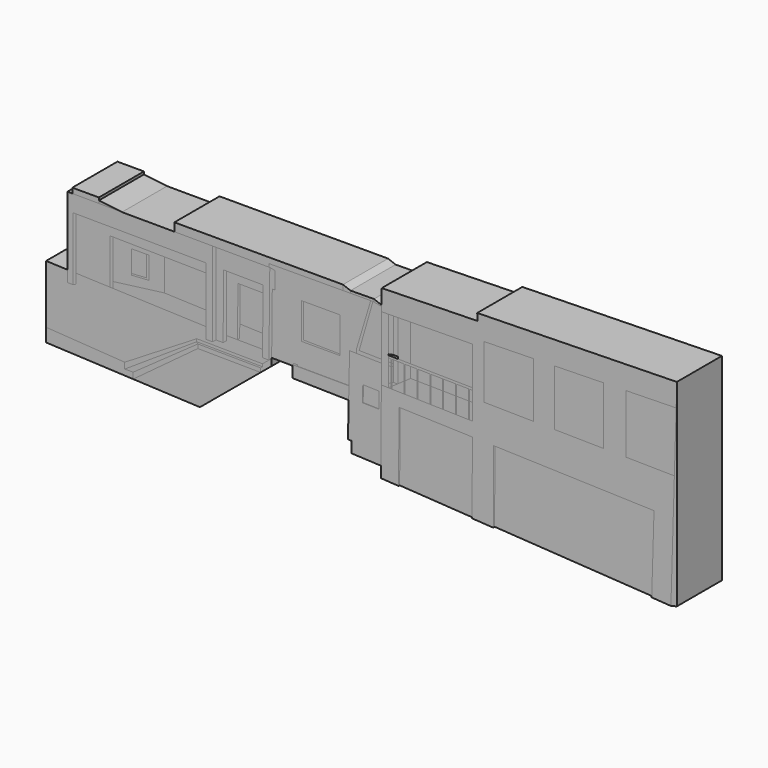
from build123d import *

# Parameters (mm, degrees)
F2_DEPTH  = 25.4
F3_DEPTH  = 25.4
F4_DEPTH  = 25.4
F5_DEPTH  = 25.4
F6_DEPTH  = 25.4
F7_DEPTH  = 25.4
F8_DEPTH  = 25.4
F9_DEPTH  = 25.4
F10_DEPTH = 25.4
F11_DEPTH = 25.4
F12_DEPTH = 25.4
F13_DEPTH = 25.4
F14_DEPTH = 25.4
F15_DEPTH = 25.4
F16_DEPTH = 25.4
F17_DEPTH = 25.4
F18_DEPTH = 25.4
F19_DEPTH = 25.4
F20_DEPTH = 25.4
F21_DEPTH = 25.4
F22_DEPTH = 25.4
F23_DEPTH = 25.4
F24_DEPTH = 25.4
F25_DEPTH = 25.4
F26_DEPTH = 25.4
F27_DEPTH = 25.4
F28_DEPTH = 25.4
F29_DEPTH = 25.4
F30_DEPTH = 25.4
F31_DEPTH = 25.4
F32_DEPTH = 25.4
F34_DEPTH = 25.4
F35_DEPTH = 25.4
F36_DEPTH = 25.4
F37_DEPTH = 25.4
F38_DEPTH = 25.4
F39_DEPTH = 25.4


with BuildPart() as f2:
    # F1 (on Front) → F2 (new body)
    with BuildSketch(Plane.XZ):
        Polygon((-12.8236627206, 21.753092451), (-12.8236627206, 24.1047445584), (-88.786845567, 24.1047445584), (-88.8035788036, 20.3721602718), (-71.7224664589, 20.2955853651), (-70.053704083, 20.288104276), (-48.7212203443, 20.1924704015), (-46.0638565993, 20.1805573963), (-46.0787265702, 21.5943669499), align=None)
    extrude(amount=F2_DEPTH)


with BuildPart() as f3:
    # F1 (on Front) → F3 (new body)
    with BuildSketch(Plane.XZ):
        Polygon((-9.4284280536, 21.7692978123), (-9.4396201894, 22.8334255517), (-12.8236627206, 24.1047445584), (-12.8236627206, 21.753092451), align=None)
    extrude(amount=F3_DEPTH)


with BuildPart() as f4:
    # F1 (on Front) → F4 (new body)
    with BuildSketch(Plane.XZ):
        Polygon((1.1672987376, 21.727256583), (1.1544924928, 22.9448508471), (-9.4396201894, 22.8334255517), (-9.4284280536, 21.7692978123), (-0.3221281921, 21.81276193), (0.6849506753, 21.8175686896), align=None)
    extrude(amount=F4_DEPTH)


with BuildPart() as f5:
    # F1 (on Front) → F5 (new body)
    with BuildSketch(Plane.XZ):
        Polygon((4.6097605062, 21.0827096292), (4.6125653396, 21.6457200897), (1.1544924928, 22.9448508471), (1.1672987376, 21.727256583), align=None)
    extrude(amount=F5_DEPTH)


with BuildPart() as f6:
    # F1 (on Front) → F6 (new body)
    with BuildSketch(Plane.XZ):
        Polygon((-134.8049057565, 20.578384975), (-122.8294596076, 20.5246988535), (-122.8294596076, 21.7148145851), (-122.8294596076, 22.9049303167), (-134.7944758156, 22.9049303167), align=None)
    extrude(amount=F6_DEPTH)


with BuildPart() as f7:
    # F1 (on Front) → F7 (new body)
    with BuildSketch(Plane.XZ):
        Polygon((-122.8294596076, 20.5246988535), (-112.3969100415, 20.4779295627), (-122.8294596076, 21.7148145851), align=None)
    extrude(amount=F7_DEPTH)


with BuildPart() as f8:
    # F1 (on Front) → F8 (new body)
    with BuildSketch(Plane.XZ):
        Polygon((-93.3647081256, 8.9381127764), (-74.4870336238, 8.6408559152), (-74.4719281793, 12.6396454871), (-133.0359578133, 13.0366897835), (-133.0359578133, -10.5046743578), (-117.9161667824, -11.055755556), (-117.9161667824, 9.3247117475), (-116.5267212274, 9.3028328754), align=None)
    extrude(amount=F8_DEPTH)


with BuildPart() as f8b:
    # F1 (on Front) → F8, piece 2 (new body)
    with BuildSketch(Plane.XZ):
        Polygon((-48.8040843389, 12.2516578923), (-65.2248669793, 12.4230121009), (-65.2248669793, -13.1652359564), (-60.3828283538, -13.2157636149), (-60.1489692926, 9.1948257759), (-59.1636573161, 9.1845438449), (-48.8372147804, 9.0767853155), align=None)
    extrude(amount=F8_DEPTH)


with BuildPart() as f8c:
    # F1 (on Front) → F8, piece 3 (new body)
    with BuildSketch(Plane.XZ):
        Polygon((-0.3221281921, 21.81276193), (-9.4284280536, 21.7692978123), (-12.8236627206, 21.753092451), (-46.0787265702, 21.5943669499), (-46.0638565993, 20.1805573963), (-45.8085096147, 20.1794126716), (-43.5050688684, 19.7023320943), (-43.4100739658, 12.0260063559), (-44.6840562734, 12.0393006205), (-44.9702762799, -15.3890103123), (-35.550262779, -15.4873100702), (-35.550262779, -15.0549281389), (-35.0273512304, -14.3694002181), (-33.1623815, -14.3694002181), (-33.5702952949, -14.9041680892), (-10.1415719546, -15.0208864623), (-9.8592014983, -1.1436360655), (-6.7912865888, -1.2060611503), (-6.7912865888, 0.3678446519), align=None)
        Polygon((-31.4390063286, -4.504986573), (-31.4390063286, 11.6645963863), (-30.6860972196, 11.6645963863), (-14.0862818807, 11.6645963863), (-14.0862818807, -3.8853364531), (-14.0862818807, -4.504986573), align=None, mode=Mode.SUBTRACT)
    extrude(amount=F8_DEPTH)


with BuildPart() as f9:
    # F1 (on Front) → F9 (new body)
    with BuildSketch(Plane.XZ):
        Polygon((-71.7224664589, 20.2955853651), (-88.8035788036, 20.3721602718), (-112.3969100415, 20.4779295627), (-122.8294596076, 20.5246988535), (-134.8049057565, 20.578384975), (-137.029722333, 20.5883588642), (-137.029722333, -15.4212425382), (-134.4574540854, -15.51499573), (-134.4574540854, 13.046327047), (-133.0359578133, 13.0366897835), (-74.4719281793, 12.6396454871), (-74.4870336238, 8.6408559152), (-74.5425941164, -6.067398272), (-74.5674059682, -12.6357170116), (-74.5865255594, -17.6971517503), (-71.7224664589, -17.7079707457), align=None)
    extrude(amount=F9_DEPTH)


with BuildPart() as f9b:
    # F1 (on Front) → F9, piece 2 (new body)
    with BuildSketch(Plane.XZ):
        Polygon((-45.8085096147, 20.1794126716), (-46.0638565993, 20.1805573963), (-48.7212203443, 20.1924704015), (-70.053704083, 20.288104276), (-70.053704083, -16.4709929377), (-66.863694885, -16.483043211), (-66.5619087199, 12.4369644036), (-65.2248669793, 12.4230121009), (-48.8040843389, 12.2516578923), (-48.8372147804, 9.0767853155), (-49.0049603732, -6.9981855938), (-49.0710738415, -13.3338040753), (-49.1104125977, -17.1036161482), (-46.1987661944, -17.2186677112), align=None)
    extrude(amount=F9_DEPTH)


with BuildPart() as f9c:
    # F1 (on Front) → F9, piece 3 (new body)
    with BuildSketch(Plane.XZ):
        Polygon((4.4544618333, -10.0901858449), (4.4975768611, -1.4357638242), (0.5695042589, -1.3558364884), (-6.7912865888, -1.2060611503), (-9.8592014983, -1.1436360655), (-10.1415719546, -15.0208864623), (-10.144839955, -15.1814941312), (-10.2613475043, -20.9073213182), (-10.5805624373, -36.5953136589), (-9.0833045542, -36.6027727723), (-9.0833045542, -41.5925756097), (4.2945207735, -42.1949414351), align=None)
        Polygon((3.3447530638, -20.0826232629), (-4.0550203994, -19.9279244989), (-3.9038069081, -12.6948636025), (-3.5908576878, -12.7014060809), (3.4927338544, -12.8494947841), (3.3458851898, -19.8737710186), (3.3447530638, -19.9279244989), align=None, mode=Mode.SUBTRACT)
    extrude(amount=F9_DEPTH)


with BuildPart() as f10:
    # F1 (on Front) → F10 (new body)
    with BuildSketch(Plane.XZ):
        Polygon((137.3065667502, 24.0006496559), (137.6165449619, 34.4184823334), (47.6724280822, 32.5341352647), (47.7442517877, 29.3896533549), (4.6462402679, 28.4052435309), (4.6125653396, 21.6457200897), (4.6097605062, 21.0827096292), (4.5993166247, 18.9863232298), (7.630603388, 19.0231844237), (9.8902536556, 19.0506623276), (11.9567220022, 19.0757910918), (17.6390260458, 19.1448893089), (45.6520797953, 19.4855349438), (45.56582533, 2.1717911751), (45.5606573475, 1.1344289391), (45.5368567753, -3.6430281619), (45.4997904599, -11.0833002254), (44.1734993602, -11.0512098803), (43.6955066383, -11.0396445825), (38.3715594882, -10.9108287428), (37.8935667662, -10.899263445), (32.5696196161, -10.7704476053), (32.0916268942, -10.7588823075), (26.7676797441, -10.6300664678), (26.2896870221, -10.61850117), (20.965739872, -10.4896853303), (20.4877471501, -10.4781200325), (15.1638, -10.3493041928), (14.6858072781, -10.337738895), (9.361860128, -10.2089230553), (8.883867406, -10.1973577575), (7.630603388, -10.1670343429), (4.4544618333, -10.0901858449), (4.2945207735, -42.1949414351), (4.2698774487, -47.1415631473), (12.2345117559, -47.6396150356), (12.390377, -16.3529925048), (12.8813954983, -16.3685805216), (45.4997904599, -17.4040936227), (45.34099701, -49.278491008), (45.3388486617, -49.7097260877), (54.9387449667, -50.3100356936), (55.1011589102, -17.7089014721), (55.6370504398, -17.7259140412), (127.3345202208, -20.0020428747), (126.3175911551, -54.1792735616), (126.2999411403, -54.7724600977), (134.9466177769, -55.3131620885), (136.4968242545, -3.2133980176), (114.6556908173, -2.8781736871), (114.6556908173, 23.5261093174), align=None)
        Polygon((50.7306903601, -1.8970334204), (50.7306903601, 22.1868678927), (72.9427945525, 22.6522158763), (72.9427945525, -2.2379515225), align=None, mode=Mode.SUBTRACT)
        Polygon((82.3846384525, -2.3828678021), (82.3846384525, 22.8500243767), (104.6096384525, 23.31564253), (104.6096384525, -2.7239838329), align=None, mode=Mode.SUBTRACT)
    extrude(amount=F10_DEPTH)


with BuildPart() as f11:
    # F1 (on Front) → F11 (new body)
    with BuildSketch(Plane.XZ):
        Polygon((55.5203706026, -49.7521162033), (126.3175911551, -54.1792735616), (127.3345202208, -20.0020428747), (55.6370504398, -17.7259140412), align=None)
    extrude(amount=F11_DEPTH)


with BuildPart() as f11b:
    # F1 (on Front) → F11, piece 2 (new body)
    with BuildSketch(Plane.XZ):
        Polygon((15.1545894803, -47.3908466178), (45.34099701, -49.278491008), (45.4997904599, -17.4040936227), (12.8813954983, -16.3685805216), (12.7276033163, -47.2390800714), align=None)
    extrude(amount=F11_DEPTH)


with BuildPart() as f12:
    # F1 (on Front) → F12 (new body)
    with BuildSketch(Plane.XZ):
        Polygon((-101.4570593834, -2.0093023777), (-101.4570593834, 7.3346886784), (-108.0558273821, 7.3346886784), (-108.210147276, -2.4655921754), align=None)
    extrude(amount=F12_DEPTH)


with BuildPart() as f12b:
    # F1 (on Front) → F12, piece 2 (new body)
    with BuildSketch(Plane.XZ):
        Polygon((-3.5908576878, -12.7014060809), (-3.7371721276, -19.7001285085), (3.3458851898, -19.8737710186), (3.4927338544, -12.8494947841), align=None)
    extrude(amount=F12_DEPTH)


with BuildPart() as f12c:
    # F1 (on Front) → F12, piece 3 (new body)
    with BuildSketch(Plane.XZ):
        Polygon((-14.0862818807, 11.6645963863), (-30.6860972196, 11.6645963863), (-30.6860972196, -3.6445211153), (-14.0862818807, -3.8853364531), align=None)
    extrude(amount=F12_DEPTH)


with BuildPart() as f12d:
    # F1 (on Front) → F12, piece 4 (new body)
    with BuildSketch(Plane.XZ):
        Polygon((72.9427945525, 22.6522158763), (50.7306903601, 22.1868678927), (50.7306903601, -1.8970334204), (72.9427945525, -2.2379515225), align=None)
    extrude(amount=F12_DEPTH)


with BuildPart() as f12e:
    # F1 (on Front) → F12, piece 5 (new body)
    with BuildSketch(Plane.XZ):
        Polygon((104.6096384525, 23.31564253), (82.3846384525, 22.8500243767), (82.3846384525, -2.3828678021), (104.6096384525, -2.7239838329), align=None)
    extrude(amount=F12_DEPTH)


with BuildPart() as f12f:
    # F1 (on Front) → F12, piece 6 (new body)
    with BuildSketch(Plane.XZ):
        Polygon((136.4968242545, -3.2133980176), (137.3065667502, 24.0006496559), (114.6556908173, 23.5261093174), (114.6556908173, -2.8781736871), align=None)
    extrude(amount=F12_DEPTH)


with BuildPart() as f13:
    # F1 (on Front) → F13 (new body)
    with BuildSketch(Plane.XZ):
        Polygon((7.630603388, 19.0231844237), (4.5993166247, 18.9863232298), (4.5054170281, 0.1379824485), (4.4975768611, -1.4357638242), (4.4544618333, -10.0901858449), (7.630603388, -10.1670343429), (7.630603388, -8.465438859), (7.630603388, -1.524606836), (7.630603388, 0.1379824485), (7.630603388, 1.6951384023), (7.630603388, 2.7325770352), (7.630603388, 3.146259675), align=None)
    extrude(amount=F13_DEPTH)


with BuildPart() as f14:
    # F1 (on Front) → F14 (new body)
    with BuildSketch(Plane.XZ):
        Polygon((11.9567220022, 19.0757910918), (9.8902536556, 19.0506623276), (9.8902536556, 3.5986150615), (11.9567220022, 3.5986150615), align=None)
    extrude(amount=F14_DEPTH)


with BuildPart() as f14b:
    # F1 (on Front) → F14, piece 2 (new body)
    with BuildSketch(Plane.XZ):
        Polygon((11.9567220022, 1.6311865912), (9.8902536556, 1.6617346194), (9.8902536556, 0.0920037093), (9.8902536556, -1.0994425975), (9.8902536556, -7.3095206171), (11.7403589404, -7.3187375632), (11.9567220022, -7.3198154514), (11.9567220022, -7.1687855273), align=None)
    extrude(amount=F14_DEPTH)


with BuildPart() as f15:
    # F1 (on Front) → F15 (new body)
    with BuildSketch(Plane.XZ):
        Polygon((9.0651202749, 2.7113709701), (7.630603388, 2.7325770352), (7.630603388, 1.6951384023), (8.883867406, 1.676611748), (9.361860128, 1.6695457143), (9.8902536556, 1.6617346194), (11.9567220022, 1.6311865912), (14.6858072781, 1.5908432808), (15.1638, 1.583777247), (17.6390260458, 1.5471866672), (20.4877471501, 1.5050748135), (20.965739872, 1.4980087797), (26.2896870221, 1.4193063463), (26.7676797441, 1.4122403125), (32.0916268942, 1.333537879), (32.5696196161, 1.3264718452), (37.8935667662, 1.2477694117), (38.3715594882, 1.240703378), (43.6955066383, 1.1620009445), (44.1734993602, 1.1549349107), (45.5606573475, 1.1344289391), (45.56582533, 2.1717911751), (17.6390260458, 2.5846253001), (11.9567220022, 2.6686252241), (9.8902536556, 2.6991732523), align=None)
        Polygon((14.6858072781, -10.3008347023), (14.6858072781, -10.337738895), (15.1638, -10.3493041928), (15.1638, -10.3124), (15.1638, -4.9460961686), (15.1638, 1.5660687695), (15.1638, 1.583777247), (14.6858072781, 1.5908432808), (14.6858072781, 1.5731348033), (14.6858072781, -5.2773725944), align=None)
        Polygon((8.883867406, -9.298450355), (8.883867406, -10.1973577575), (9.361860128, -10.2089230553), (9.361860128, -8.9671739292), (9.361860128, -7.5798189576), (9.361860128, -1.1988624214), (9.361860128, 0.1027553147), (9.361860128, 1.6695457143), (8.883867406, 1.676611748), (8.883867406, 0.1124813786), (8.883867406, -1.2887990876), (8.883867406, -7.8243348965), align=None)
        Polygon((20.4877471501, -10.404311647), (20.4877471501, -10.4781200325), (20.965739872, -10.4896853303), (20.965739872, -10.4158769447), (20.965739872, -3.2798001585), (20.965739872, 1.4625918248), (20.965739872, 1.4980087797), (20.4877471501, 1.5050748135), (20.4877471501, 1.4696578586), (20.4877471501, -3.2727341247), align=None)
        Polygon((26.2896870221, -10.5077885918), (26.2896870221, -10.61850117), (26.7676797441, -10.6300664678), (26.7676797441, -10.5193538895), (26.7676797441, -3.3655686258), (26.7676797441, 1.35911488), (26.7676797441, 1.4122403125), (26.2896870221, 1.4193063463), (26.2896870221, 1.3661809138), (26.2896870221, -3.358502592), align=None)
        Polygon((32.5696196161, 1.2556379353), (32.5696196161, 1.3264718452), (32.0916268942, 1.333537879), (32.0916268942, 1.2627039691), (32.0916268942, -3.4442710592), (32.0916268942, -10.6112655365), (32.0916268942, -10.7588823075), (32.5696196161, -10.7704476053), (32.5696196161, -10.6228308342), (32.5696196161, -3.451337093), align=None)
        Polygon((38.3715594882, 1.1521609905), (38.3715594882, 1.240703378), (37.8935667662, 1.2477694117), (37.8935667662, 1.1592270243), (37.8935667662, -3.5300395265), (37.8935667662, -10.7147424813), (37.8935667662, -10.899263445), (38.3715594882, -10.9108287428), (38.3715594882, -10.726307779), (38.3715594882, -3.5371055603), align=None)
        Polygon((44.1734993602, 1.0486840458), (44.1734993602, 1.1549349107), (43.6955066383, 1.1620009445), (43.6955066383, 1.0557500796), (43.6955066383, -3.6158079938), (43.6955066383, -10.818219426), (43.6955066383, -11.0396445825), (44.1734993602, -11.0512098803), (44.1734993602, -10.8297847237), (44.1734993602, -3.6228740275), align=None)
    extrude(amount=F15_DEPTH)


with BuildPart() as f16:
    # F1 (on Front) → F16 (new body)
    with BuildSketch(Plane.XZ):
        Polygon((45.6520797953, 19.4855349438), (17.6390260458, 19.1448893089), (17.6390260458, 2.5846253001), (45.56582533, 2.1717911751), align=None)
    extrude(amount=F16_DEPTH)


with BuildPart() as f16b:
    # F1 (on Front) → F16, piece 2 (new body)
    with BuildSketch(Plane.XZ):
        Polygon((17.6390260458, -3.2306222711), (20.4877471501, -3.2727341247), (20.4877471501, 1.4696578586), (20.4877471501, 1.5050748135), (17.6390260458, 1.5471866672), align=None)
    extrude(amount=F16_DEPTH)


with BuildPart() as f16c:
    # F1 (on Front) → F16, piece 3 (new body)
    with BuildSketch(Plane.XZ):
        Polygon((20.965739872, 1.4625918248), (20.965739872, -3.2798001585), (26.2896870221, -3.358502592), (26.2896870221, 1.3661809138), (26.2896870221, 1.4193063463), (20.965739872, 1.4980087797), align=None)
    extrude(amount=F16_DEPTH)


with BuildPart() as f16d:
    # F1 (on Front) → F16, piece 4 (new body)
    with BuildSketch(Plane.XZ):
        Polygon((32.0916268942, 1.2627039691), (32.0916268942, 1.333537879), (26.7676797441, 1.4122403125), (26.7676797441, 1.35911488), (26.7676797441, -3.3655686258), (32.0916268942, -3.4442710592), align=None)
    extrude(amount=F16_DEPTH)


with BuildPart() as f16e:
    # F1 (on Front) → F16, piece 5 (new body)
    with BuildSketch(Plane.XZ):
        Polygon((37.8935667662, 1.1592270243), (37.8935667662, 1.2477694117), (32.5696196161, 1.3264718452), (32.5696196161, 1.2556379353), (32.5696196161, -3.451337093), (37.8935667662, -3.5300395265), align=None)
    extrude(amount=F16_DEPTH)


with BuildPart() as f16f:
    # F1 (on Front) → F16, piece 6 (new body)
    with BuildSketch(Plane.XZ):
        Polygon((43.6955066383, 1.0557500796), (43.6955066383, 1.1620009445), (38.3715594882, 1.240703378), (38.3715594882, 1.1521609905), (38.3715594882, -3.5371055603), (43.6955066383, -3.6158079938), align=None)
    extrude(amount=F16_DEPTH)


with BuildPart() as f16g:
    # F1 (on Front) → F16, piece 7 (new body)
    with BuildSketch(Plane.XZ):
        Polygon((45.5368567753, -3.6430281619), (45.5606573475, 1.1344289391), (44.1734993602, 1.1549349107), (44.1734993602, 1.0486840458), (44.1734993602, -3.6228740275), align=None)
    extrude(amount=F16_DEPTH)


with BuildPart() as f16h:
    # F1 (on Front) → F16, piece 8 (new body)
    with BuildSketch(Plane.XZ):
        Polygon((-93.3647081256, -5.3813760169), (-74.5425941164, -6.067398272), (-74.4870336238, 8.6408559152), (-93.3647081256, 8.9381127764), align=None)
    extrude(amount=F16_DEPTH)


with BuildPart() as f17:
    # F1 (on Front) → F17 (new body)
    with BuildSketch(Plane.XZ):
        Polygon((17.6390260458, 19.1448893089), (11.9567220022, 19.0757910918), (11.9567220022, 3.5986150615), (11.9567220022, 3.2954460476), (11.9567220022, 2.6686252241), (17.6390260458, 2.5846253001), align=None)
    extrude(amount=F17_DEPTH)


with BuildPart() as f17b:
    # F1 (on Front) → F17, piece 2 (new body)
    with BuildSketch(Plane.XZ):
        Polygon((14.6858072781, 1.5908432808), (11.9567220022, 1.6311865912), (11.9567220022, -7.1687855273), (14.6858072781, -5.2773725944), (14.6858072781, 1.5731348033), align=None)
    extrude(amount=F17_DEPTH)


with BuildPart() as f17c:
    # F1 (on Front) → F17, piece 3 (new body)
    with BuildSketch(Plane.XZ):
        Polygon((15.1638, 1.5660687695), (15.1638, -4.9460961686), (17.6390260458, -3.2306222711), (17.6390260458, 1.5471866672), (15.1638, 1.583777247), align=None)
    extrude(amount=F17_DEPTH)


with BuildPart() as f17d:
    # F1 (on Front) → F17, piece 4 (new body)
    with BuildSketch(Plane.XZ):
        Polygon((-116.5267212274, -8.372607809), (-93.3647081256, -5.3813760169), (-93.3647081256, 8.9381127764), (-116.5267212274, 9.3028328754), align=None)
        Polygon((-101.4570593834, 7.3346886784), (-100.3089919686, 7.3346886784), (-100.3089919686, -2.6449130382), (-108.2213893533, -3.1795345712), (-108.210147276, -2.4655921754), (-108.0558273821, 7.3346886784), align=None, mode=Mode.SUBTRACT)
    extrude(amount=F17_DEPTH)


with BuildPart() as f18:
    # F1 (on Front) → F18 (new body)
    with BuildSketch(Plane.XZ):
        Polygon((9.361860128, -8.9671739292), (9.361860128, -10.2089230553), (14.6858072781, -10.337738895), (14.6858072781, -10.3008347023), (14.6858072781, -5.2773725944), (11.9567220022, -7.1687855273), (11.9567220022, -7.3198154514), (11.7403589404, -7.3187375632), align=None)
    extrude(amount=F18_DEPTH)


with BuildPart() as f18b:
    # F1 (on Front) → F18, piece 2 (new body)
    with BuildSketch(Plane.XZ):
        Polygon((15.1638, -10.3124), (15.1638, -10.3493041928), (20.4877471501, -10.4781200325), (20.4877471501, -10.404311647), (20.4877471501, -3.2727341247), (17.6390260458, -3.2306222711), (15.1638, -4.9460961686), align=None)
    extrude(amount=F18_DEPTH)


with BuildPart() as f18c:
    # F1 (on Front) → F18, piece 3 (new body)
    with BuildSketch(Plane.XZ):
        Polygon((20.965739872, -10.4158769447), (20.965739872, -10.4896853303), (26.2896870221, -10.61850117), (26.2896870221, -10.5077885918), (26.2896870221, -3.358502592), (20.965739872, -3.2798001585), align=None)
    extrude(amount=F18_DEPTH)


with BuildPart() as f18d:
    # F1 (on Front) → F18, piece 4 (new body)
    with BuildSketch(Plane.XZ):
        Polygon((26.7676797441, -10.5193538895), (26.7676797441, -10.6300664678), (32.0916268942, -10.7588823075), (32.0916268942, -10.6112655365), (32.0916268942, -3.4442710592), (26.7676797441, -3.3655686258), align=None)
    extrude(amount=F18_DEPTH)


with BuildPart() as f18e:
    # F1 (on Front) → F18, piece 5 (new body)
    with BuildSketch(Plane.XZ):
        Polygon((32.5696196161, -10.7704476053), (37.8935667662, -10.899263445), (37.8935667662, -10.7147424813), (37.8935667662, -3.5300395265), (32.5696196161, -3.451337093), (32.5696196161, -10.6228308342), align=None)
    extrude(amount=F18_DEPTH)


with BuildPart() as f18f:
    # F1 (on Front) → F18, piece 6 (new body)
    with BuildSketch(Plane.XZ):
        Polygon((38.3715594882, -10.9108287428), (43.6955066383, -11.0396445825), (43.6955066383, -10.818219426), (43.6955066383, -3.6158079938), (38.3715594882, -3.5371055603), (38.3715594882, -10.726307779), align=None)
    extrude(amount=F18_DEPTH)


with BuildPart() as f18g:
    # F1 (on Front) → F18, piece 7 (new body)
    with BuildSketch(Plane.XZ):
        Polygon((45.4997904599, -11.0833002254), (45.5368567753, -3.6430281619), (44.1734993602, -3.6228740275), (44.1734993602, -10.8297847237), (44.1734993602, -11.0512098803), align=None)
    extrude(amount=F18_DEPTH)


with BuildPart() as f19:
    # F1 (on Front) → F19 (new body)
    with BuildSketch(Plane.XZ):
        Polygon((-59.3286009093, -6.6219129202), (-49.0049603732, -6.9981855938), (-48.8372147804, 9.0767853155), (-59.1636573161, 9.1845438449), align=None)
    extrude(amount=F19_DEPTH)


with BuildPart() as f20:
    # F1 (on Front) → F20 (new body)
    with BuildSketch(Plane.XZ):
        Polygon((-116.5267212274, -11.1063976131), (-74.5674059682, -12.6357170116), (-74.5425941164, -6.067398272), (-93.3647081256, -5.3813760169), (-116.5267212274, -8.372607809), align=None)
    extrude(amount=F20_DEPTH)


with BuildPart() as f20b:
    # F1 (on Front) → F20, piece 2 (new body)
    with BuildSketch(Plane.XZ):
        Polygon((-60.3828283538, -13.2157636149), (-49.0710738415, -13.3338040753), (-49.0049603732, -6.9981855938), (-59.3286009093, -6.6219129202), (-59.3884177506, -12.354128994), align=None)
    extrude(amount=F20_DEPTH)


with BuildPart() as f21:
    # F1 (on Front) → F21 (new body)
    with BuildSketch(Plane.XZ):
        Polygon((-134.4574540854, 13.046327047), (-134.4574540854, -15.51499573), (-133.0359578133, -14.7666828707), (-133.0359578133, -10.5046743578), (-133.0359578133, 13.0366897835), align=None)
    extrude(amount=F21_DEPTH)


with BuildPart() as f21b:
    # F1 (on Front) → F21, piece 2 (new body)
    with BuildSketch(Plane.XZ):
        Polygon((-117.9161667824, -11.055755556), (-116.5267212274, -11.1063976131), (-116.5267212274, -8.372607809), (-116.5267212274, 9.3028328754), (-117.9161667824, 9.3247117475), align=None)
    extrude(amount=F21_DEPTH)


with BuildPart() as f21c:
    # F1 (on Front) → F21, piece 3 (new body)
    with BuildSketch(Plane.XZ):
        Polygon((-70.053704083, 20.288104276), (-71.7224664589, 20.2955853651), (-71.7224664589, -17.7079707457), (-70.053704083, -16.4709929377), align=None)
    extrude(amount=F21_DEPTH)


with BuildPart() as f21d:
    # F1 (on Front) → F21, piece 4 (new body)
    with BuildSketch(Plane.XZ):
        Polygon((-66.5619087199, 12.4369644036), (-66.863694885, -16.483043211), (-65.2248669793, -15.2161475271), (-65.2248669793, -13.1652359564), (-65.2248669793, 12.4230121009), align=None)
    extrude(amount=F21_DEPTH)


with BuildPart() as f21e:
    # F1 (on Front) → F21, piece 5 (new body)
    with BuildSketch(Plane.XZ):
        Polygon((-60.1489692926, 9.1948257759), (-60.3828283538, -13.2157636149), (-59.3884177506, -12.354128994), (-59.3286009093, -6.6219129202), (-59.1636573161, 9.1845438449), align=None)
    extrude(amount=F21_DEPTH)


with BuildPart() as f21f:
    # F1 (on Front) → F21, piece 6 (new body)
    with BuildSketch(Plane.XZ):
        Polygon((-43.5050688684, 19.7023320943), (-45.8085096147, 20.1794126716), (-46.1987661944, -17.2186677112), (-44.9810233856, -16.4188997314), (-44.9702762799, -15.3890103123), (-44.6840562734, 12.0393006205), (-43.4100739658, 12.0260063559), align=None)
    extrude(amount=F21_DEPTH)


with BuildPart() as f21g:
    # F1 (on Front) → F21, piece 7 (new body)
    with BuildSketch(Plane.XZ):
        Polygon((-100.3089919686, -2.6449130382), (-100.3089919686, 7.3346886784), (-101.4570593834, 7.3346886784), (-101.4570593834, -2.0093023777), align=None)
        Polygon((-108.2213893533, -3.1795345712), (-100.3089919686, -2.6449130382), (-101.4570593834, -2.0093023777), (-108.210147276, -2.4655921754), align=None)
    extrude(amount=F21_DEPTH)


with BuildPart() as f22:
    # F1 (on Front) → F22 (new body)
    with BuildSketch(Plane.XZ):
        Polygon((-5.5362234151, 0.3423069733), (0.6849506753, 21.8175686896), (-0.3221281921, 21.81276193), (-6.7912865888, 0.3678446519), align=None)
        Polygon((0.5695042589, -1.3558364884), (0.577344426, 0.2179097843), (-5.5362234151, 0.3423069733), (-6.7912865888, 0.3678446519), (-6.7912865888, -1.2060611503), align=None)
        Polygon((4.4975768611, -1.4357638242), (4.5054170281, 0.1379824485), (0.577344426, 0.2179097843), (0.5695042589, -1.3558364884), align=None)
    extrude(amount=F22_DEPTH)


with BuildPart() as f23:
    # F1 (on Front) → F23 (new body)
    with BuildSketch(Plane.XZ):
        Polygon((4.5993166247, 18.9863232298), (4.6097605062, 21.0827096292), (1.1672987376, 21.727256583), (0.6849506753, 21.8175686896), (0.577344426, 0.2179097843), (4.5054170281, 0.1379824485), align=None)
        Polygon((0.577344426, 0.2179097843), (0.6849506753, 21.8175686896), (-5.5362234151, 0.3423069733), align=None)
    extrude(amount=F23_DEPTH)


with BuildPart() as f23b:
    # F1 (on Front) → F23, piece 2 (new body)
    with BuildSketch(Plane.XZ):
        Polygon((9.8902536556, 19.0506623276), (7.630603388, 19.0231844237), (7.630603388, 3.146259675), (9.8902536556, 3.5986150615), align=None)
    extrude(amount=F23_DEPTH)


with BuildPart() as f23c:
    # F1 (on Front) → F23, piece 3 (new body)
    with BuildSketch(Plane.XZ):
        Polygon((8.883867406, 1.676611748), (7.630603388, 1.6951384023), (7.630603388, 0.1379824485), (8.883867406, 0.1124813786), align=None)
    extrude(amount=F23_DEPTH)


with BuildPart() as f23d:
    # F1 (on Front) → F23, piece 4 (new body)
    with BuildSketch(Plane.XZ):
        Polygon((9.8902536556, 1.6617346194), (9.361860128, 1.6695457143), (9.361860128, 0.1027553147), (9.8902536556, 0.0920037093), align=None)
    extrude(amount=F23_DEPTH)


with BuildPart() as f24:
    # F1 (on Front) → F24 (new body)
    with BuildSketch(Plane.XZ):
        Polygon((8.883867406, 0.1124813786), (7.630603388, 0.1379824485), (7.630603388, -1.524606836), (8.883867406, -1.2887990876), align=None)
    extrude(amount=F24_DEPTH)


with BuildPart() as f24b:
    # F1 (on Front) → F24, piece 2 (new body)
    with BuildSketch(Plane.XZ):
        Polygon((9.8902536556, 0.0920037093), (9.361860128, 0.1027553147), (9.361860128, -1.1988624214), (9.8902536556, -1.0994425975), align=None)
    extrude(amount=F24_DEPTH)


with BuildPart() as f25:
    # F1 (on Front) → F25 (new body)
    with BuildSketch(Plane.XZ):
        Polygon((7.630603388, -1.524606836), (7.630603388, -8.465438859), (8.883867406, -7.8243348965), (8.883867406, -1.2887990876), align=None)
    extrude(amount=F25_DEPTH)


with BuildPart() as f25b:
    # F1 (on Front) → F25, piece 2 (new body)
    with BuildSketch(Plane.XZ):
        Polygon((9.361860128, -1.1988624214), (9.361860128, -7.5798189576), (9.8902536556, -7.3095206171), (9.8902536556, -1.0994425975), align=None)
    extrude(amount=F25_DEPTH)


with BuildPart() as f26:
    # F1 (on Front) → F26 (new body)
    with BuildSketch(Plane.XZ):
        Polygon((8.883867406, -9.298450355), (7.630603388, -10.1670343429), (8.883867406, -10.1973577575), align=None)
    extrude(amount=F26_DEPTH)


with BuildPart() as f27:
    # F1 (on Front) → F27 (new body)
    with BuildSketch(Plane.XZ):
        Polygon((9.361860128, -7.5798189576), (9.361860128, -8.9671739292), (11.7403589404, -7.3187375632), (9.8902536556, -7.3095206171), align=None)
    extrude(amount=F27_DEPTH)


with BuildPart() as f27b:
    # F1 (on Front) → F27, piece 2 (new body)
    with BuildSketch(Plane.XZ):
        Polygon((7.630603388, -8.465438859), (7.630603388, -10.1670343429), (8.883867406, -9.298450355), (8.883867406, -7.8243348965), align=None)
    extrude(amount=F27_DEPTH)


with BuildPart() as f28:
    # F1 (on Front) → F28 (new body)
    with BuildSketch(Plane.XZ):
        Polygon((-3.9038069081, -12.6948636025), (-4.0550203994, -19.9279244989), (-3.7371721276, -19.7001285085), (-3.5908576878, -12.7014060809), align=None)
        Polygon((-3.7371721276, -19.7001285085), (-4.0550203994, -19.9279244989), (3.3447530638, -20.0826232629), (3.3447530638, -19.9279244989), (3.3458851898, -19.8737710186), align=None)
    extrude(amount=F28_DEPTH)


with BuildPart() as f28b:
    # F1 (on Front) → F28, piece 2 (new body)
    with BuildSketch(Plane.XZ):
        Polygon((-30.6860972196, 11.6645963863), (-31.4390063286, 11.6645963863), (-31.4390063286, -4.504986573), (-30.6860972196, -3.6445211153), align=None)
        Polygon((-30.6860972196, -3.6445211153), (-31.4390063286, -4.504986573), (-14.0862818807, -4.504986573), (-14.0862818807, -3.8853364531), align=None)
    extrude(amount=F28_DEPTH)


with BuildPart() as f29:
    # F1 (on Front) → F29 (new body)
    with BuildSketch(Plane.XZ):
        Polygon((12.7276033163, -47.2390800714), (12.8813954983, -16.3685805216), (12.390377, -16.3529925048), (12.2345117559, -47.6396150356), align=None)
    extrude(amount=F29_DEPTH)


with BuildPart() as f29b:
    # F1 (on Front) → F29, piece 2 (new body)
    with BuildSketch(Plane.XZ):
        Polygon((54.9387449667, -50.3100356936), (55.5203706026, -49.7521162033), (55.6370504398, -17.7259140412), (55.1011589102, -17.7089014721), align=None)
    extrude(amount=F29_DEPTH)


with BuildPart() as f30:
    # F1 (on Front) → F30 (new body)
    with BuildSketch(Plane.XZ):
        Polygon((134.9466177769, -55.3131620885), (137.6165449619, -54.6308495104), (137.6165449619, 34.4184823334), (137.3065667502, 24.0006496559), (136.4968242545, -3.2133980176), align=None)
    extrude(amount=F30_DEPTH)


with BuildPart() as f31:
    # F1 (on Front) → F31 (new body)
    with BuildSketch(Plane.XZ):
        Polygon((-10.2613475043, -20.9073213182), (-10.144839955, -15.1814941312), (-35.550262779, -15.0549281389), (-35.550262779, -15.4873100702), (-35.550262779, -20.3927494586), align=None)
    extrude(amount=F31_DEPTH)


with BuildPart() as f32:
    # F1 (on Front) → F32 (new body)
    with BuildSketch(Plane.XZ):
        Polygon((-10.144839955, -15.1814941312), (-10.1415719546, -15.0208864623), (-33.5702952949, -14.9041680892), (-33.1623815, -14.3694002181), (-35.0273512304, -14.3694002181), (-35.550262779, -15.0549281389), align=None)
    extrude(amount=F32_DEPTH)


with BuildPart() as f34:
    # F33 (on Front) → F34 (new body)
    with BuildSketch(Plane.XZ):
        Polygon((-146.6173222288, -10.0096652298), (-146.6173222288, -36.3308601081), (-111.184835434, -38.6742949486), (-78.737135331, -18.7963504347), (-78.2207266383, -18.8017392645), (-49.0862603537, -19.1057633494), (-44.9952016925, -15.7148999854), (-46.1987661944, -16.6986859474), (-49.1058705039, -16.6683497223), (-49.0710738415, -13.3338040753), (-60.3828283538, -13.2157636149), (-65.2248669793, -13.1652359564), (-65.2248669793, -15.2161475271), (-66.863694885, -16.483043211), (-70.053704083, -16.4709929377), (-71.7224664589, -17.7079707457), (-74.5865255594, -17.6971517503), (-74.5674059682, -12.6357170116), (-116.5267212274, -11.1063976131), (-117.9161667824, -11.055755556), (-133.0359578133, -10.5046743578), (-133.0359578133, -14.7666828707), (-134.4574540854, -15.51499573), (-137.029722333, -15.4212425382), (-137.029722333, -10.3591109349), align=None)
    extrude(amount=F34_DEPTH)


with BuildPart() as f35:
    # F33 (on Front) → F35 (new body)
    with BuildSketch(Plane.XZ):
        Polygon((-146.6173222288, -36.3308601081), (-146.6173222288, -42.3668585718), (-107.3763137338, -44.1365494862), (-107.3763137338, -41.3919791117), (-111.184835434, -41.3919791117), (-111.184835434, -38.6742949486), align=None)
    extrude(amount=F35_DEPTH)


with BuildPart() as f35b:
    # F33 (on Front) → F35, piece 2 (new body)
    with BuildSketch(Plane.XZ):
        Polygon((-49.9489129012, -21.0142006459), (-49.9509623429, -22.821599682), (-44.9952016925, -18.7140303163), (-44.9952016925, -15.7148999854), (-49.0862603537, -19.1057633494), (-49.0862603537, -20.2991933186), align=None)
    extrude(amount=F35_DEPTH)


with BuildPart() as f36:
    # F33 (on Front) → F36 (new body)
    with BuildSketch(Plane.XZ):
        Polygon((-78.737135331, -18.7963504347), (-111.184835434, -38.6742949486), (-111.184835434, -41.3919791117), (-78.737135331, -19.9942111618), align=None)
    extrude(amount=F36_DEPTH)


with BuildPart() as f36b:
    # F33 (on Front) → F36, piece 2 (new body)
    with BuildSketch(Plane.XZ):
        Polygon((-107.3763137338, -41.3919791117), (-107.3763137338, -44.1365494862), (-78.2230718376, -22.5265744658), (-78.2230718376, -20.7191540432), align=None)
    extrude(amount=F36_DEPTH)


with BuildPart() as f37:
    # F33 (on Front) → F37 (new body)
    with BuildSketch(Plane.XZ):
        Polygon((-78.2230718376, -20.7191540432), (-78.2230718376, -22.5265744658), (-49.9509623429, -22.821599682), (-49.9489129012, -21.0142006459), align=None)
    extrude(amount=F37_DEPTH)


with BuildPart() as f37b:
    # F33 (on Front) → F37, piece 2 (new body)
    with BuildSketch(Plane.XZ):
        Polygon((-78.2207266383, -18.8017392645), (-78.737135331, -18.7963504347), (-78.737135331, -19.9942111618), (-78.2207266383, -19.9951692337), (-49.0862603537, -20.2991933186), (-49.0862603537, -19.1057633494), align=None)
    extrude(amount=F37_DEPTH)


with BuildPart() as f38:
    # F33 (on Front) → F38 (new body)
    with BuildSketch(Plane.XZ):
        Polygon((-111.184835434, -41.3919791117), (-107.3763137338, -41.3919791117), (-78.2230718376, -20.7191540432), (-78.737135331, -19.9942111618), align=None)
    extrude(amount=F38_DEPTH)


with BuildPart() as f38b:
    # F33 (on Front) → F38, piece 2 (new body)
    with BuildSketch(Plane.XZ):
        Polygon((-78.2230718376, -22.5265744658), (-107.3763137338, -44.1365494862), (-77.3036070712, -45.4927683448), (-49.9509623429, -22.821599682), align=None)
    extrude(amount=F38_DEPTH)


with BuildPart() as f39:
    # F33 (on Front) → F39 (new body)
    with BuildSketch(Plane.XZ):
        Polygon((-78.737135331, -19.9942111618), (-78.2230718376, -20.7191540432), (-49.9489129012, -21.0142006459), (-49.0862603537, -20.2991933186), (-78.2207266383, -19.9951692337), align=None)
    extrude(amount=F39_DEPTH)


solid = Compound([f2.part, f3.part, f4.part, f5.part, f6.part, f7.part, f8.part, f8b.part, f8c.part, f9.part, f9b.part, f9c.part, f10.part, f11.part, f11b.part, f12.part, f12b.part, f12c.part, f12d.part, f12e.part, f12f.part, f13.part, f14.part, f14b.part, f15.part, f16.part, f16b.part, f16c.part, f16d.part, f16e.part, f16f.part, f16g.part, f16h.part, f17.part, f17b.part, f17c.part, f17d.part, f18.part, f18b.part, f18c.part, f18d.part, f18e.part, f18f.part, f18g.part, f19.part, f20.part, f20b.part, f21.part, f21b.part, f21c.part, f21d.part, f21e.part, f21f.part, f21g.part, f22.part, f23.part, f23b.part, f23c.part, f23d.part, f24.part, f24b.part, f25.part, f25b.part, f26.part, f27.part, f27b.part, f28.part, f28b.part, f29.part, f29b.part, f30.part, f31.part, f32.part, f34.part, f35.part, f35b.part, f36.part, f36b.part, f37.part, f37b.part, f38.part, f38b.part, f39.part])
